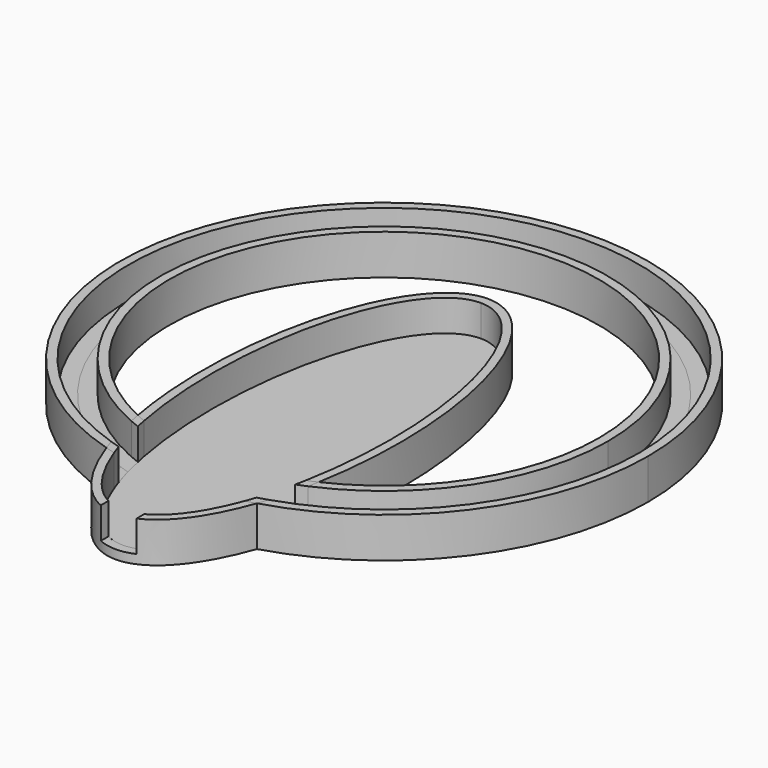
from build123d import *

# Parameters (mm, degrees)
F0_R      = 50
F0_R_2    = 48
F1_DEPTH  = 9
F2_R      = 57
F2_R_2    = 50
F3_DEPTH  = 2
F4_R      = 59
F4_R_2    = 57
F5_DEPTH  = 9
F7_DEPTH  = 9
F9_DEPTH  = 9
F10_R     = 53.5
F10_R_2   = 50
F11_DEPTH = 9
F12_R     = 57
F12_R_2   = 50
F13_DEPTH = 2
F15_DEPTH = 2
F17_W     = 8
F17_H     = 7
F18_DEPTH = 80
F19_DEPTH = 9
F21_DEPTH = 2


with BuildPart() as f1:
    # F0 (on Top) → F1 (new body)
    with BuildSketch(Plane.XY):
        Circle(F0_R)
        Circle(F0_R_2, mode=Mode.SUBTRACT)
    extrude(amount=F1_DEPTH)

    # F2 (on Top) → F3 (join)
    with BuildSketch(Plane.XY):
        Circle(F2_R)
        Circle(F2_R_2, mode=Mode.SUBTRACT)
    extrude(amount=F3_DEPTH)

    # F4 (on Top) → F5 (join)
    with BuildSketch(Plane.XY):
        Circle(F4_R)
        Circle(F4_R_2, mode=Mode.SUBTRACT)
    extrude(amount=F5_DEPTH)

    # F6 (on Top) → F7 (join)
    with BuildSketch(Plane.XY):
        with BuildLine():
            add(Edge.make_bspline(
                [(0, 29), (-38.1051177665, 29), (-19.0525588833, -49), (0, -127), (19.0525588833, -49), (38.1051177665, 29), (0, 29)],
                knots=[0, 0, 0, 2.0943951024, 2.0943951024, 4.1887902048, 4.1887902048, 6.2831853072, 6.2831853072, 6.2831853072], degree=2, weights=[1, 0.5, 1, 0.5, 1, 0.5, 1]))
        make_face()
        with BuildLine():
            add(Edge.make_bspline(
                [(0, 27), (-34.6410161514, 27), (-17.3205080757, -48), (0, -123), (17.3205080757, -48), (34.6410161514, 27), (0, 27)],
                knots=[0, 0, 0, 2.0943951024, 2.0943951024, 4.1887902048, 4.1887902048, 6.2831853072, 6.2831853072, 6.2831853072], degree=2, weights=[1, 0.5, 1, 0.5, 1, 0.5, 1]))
        make_face(mode=Mode.SUBTRACT)
    extrude(amount=F7_DEPTH)

    # F8 (on Top) → F9 (cut)
    with BuildSketch(Plane.XY):
        with BuildLine():
            add(Edge.make_bspline(
                [(0, 27), (-34.6410161514, 27), (-17.3205080757, -48), (0, -123), (17.3205080757, -48), (34.6410161514, 27), (0, 27)],
                knots=[0, 0, 0, 2.0943951024, 2.0943951024, 4.1887902048, 4.1887902048, 6.2831853072, 6.2831853072, 6.2831853072], degree=2, weights=[1, 0.5, 1, 0.5, 1, 0.5, 1]))
        make_face()
    extrude(amount=F9_DEPTH, mode=Mode.SUBTRACT)

    # F10 (on Top) → F11 (cut)
    with BuildSketch(Plane.XY):
        Circle(F10_R)
        Circle(F10_R_2, mode=Mode.SUBTRACT)
    extrude(amount=F11_DEPTH, mode=Mode.SUBTRACT)

    # F17 (on Front) → F18 (cut)
    with BuildSketch(Plane.XZ):
        with Locations((0, 5.5)):
            Rectangle(F17_W, F17_H)
    extrude(amount=F18_DEPTH, mode=Mode.SUBTRACT)



with BuildPart() as f13:
    # F12 (on Top) → F13 (new body)
    with BuildSketch(Plane.XY):
        Circle(F12_R)
        Circle(F12_R_2, mode=Mode.SUBTRACT)
    extrude(amount=F13_DEPTH)


with BuildPart() as f15:
    # F14 (on Top) → F15 (new body)
    with BuildSketch(Plane.XY):
        with BuildLine():
            add(Edge.make_bspline(
                [(0, 25), (-31.1769145362, 25), (-15.5884572681, -47), (0, -119), (15.5884572681, -47), (31.1769145362, 25), (0, 25)],
                knots=[0, 0, 0, 2.0943951024, 2.0943951024, 4.1887902048, 4.1887902048, 6.2831853072, 6.2831853072, 6.2831853072], degree=2, weights=[1, 0.5, 1, 0.5, 1, 0.5, 1]))
        make_face()
    extrude(amount=F15_DEPTH)


with BuildPart() as f1_1:
    add(f1.part)
    # F19 (cut): a face of the model
    f19_faces = [f13.part.faces().sort_by_distance(p)[0] for p in [
        (-55.3877965389, 0, 2),
    ]]
    extrude(f19_faces, amount=F19_DEPTH, mode=Mode.SUBTRACT)


with BuildPart() as f21:
    # F20 (on Top) → F21 (new body)
    with BuildSketch(Plane.XY):
        with BuildLine():
            add(Edge.make_bspline(
                [(0, 27), (-34.6410161514, 27), (-17.3205080757, -48), (0, -123), (17.3205080757, -48), (34.6410161514, 27), (0, 27)],
                knots=[0, 0, 0, 2.0943951024, 2.0943951024, 4.1887902048, 4.1887902048, 6.2831853072, 6.2831853072, 6.2831853072], degree=2, weights=[1, 0.5, 1, 0.5, 1, 0.5, 1]))
        make_face()
    extrude(amount=F21_DEPTH)


solid = Compound([f13.part, f15.part, f1_1.part, f21.part])
